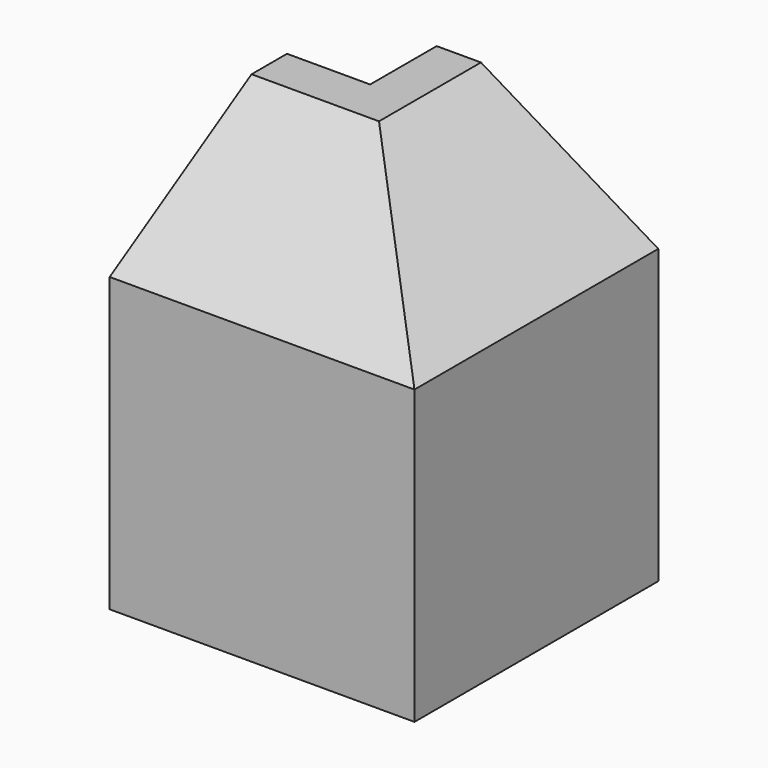
from build123d import *

# Parameters (mm, degrees)
PAD009_DEPTH    = 28.8
POCKET005_DEPTH = 24
POCKET006_DEPTH = 24
SKETCH111_W     = 2
SKETCH111_H     = 16
POCKET027_DEPTH = 30
PAD132_DEPTH    = 24
PAD133_DEPTH    = 22
POCKET054_DEPTH = 30
POCKET055_DEPTH = 26
SKETCH189_W     = 16
SKETCH189_H     = 2
POCKET071_DEPTH = 30


with BuildPart() as part:
    # Sketch014 (on Face52 of Binder005) → Pad009 (new body)
    with BuildSketch(Plane.XY.offset(-28.8)):
        Polygon((127.8, 0), (127.8, 8), (143.8, 8), (143.8, -16), (119.8, -16), (119.8, 0), align=None)
    extrude(amount=PAD009_DEPTH)

    # Sketch015 (on Face5 of Pad009) → Pocket005 (cut)
    with BuildSketch(Plane(origin=(119.8, 0, 0), x_dir=(0, -1, 0), z_dir=(-1, 0, 0))):
        Polygon((16, -9.6), (0, 0), (16, 0), align=None)
    extrude(amount=-POCKET005_DEPTH, mode=Mode.SUBTRACT)

    # Sketch016 (on Face3 of Pocket005) → Pocket006 (cut)
    with BuildSketch(Plane(origin=(0, 8, 0), x_dir=(-1, 0, 0), z_dir=(0, 1, 0))):
        Polygon((-143.8, -9.6), (-127.8, 0), (-143.8, 0), align=None)
    extrude(amount=-POCKET006_DEPTH, mode=Mode.SUBTRACT)

    # Sketch111 (on Face4 of Pocket006) → Pocket027 (cut)
    with BuildSketch(Plane(origin=(0, 0, -28.8), x_dir=(1, 0, 0), z_dir=(0, 0, -1))):
        with Locations((120.8, 8)):
            Rectangle(SKETCH111_W, SKETCH111_H)
    extrude(amount=-POCKET027_DEPTH, mode=Mode.SUBTRACT)

    # Sketch132 (on Face3 of Pocket027) → Pad132 (join)
    with BuildSketch(Plane(origin=(0, 8, 0), x_dir=(-1, 0, 0), z_dir=(0, 1, 0))):
        Polygon((-127.8, 0), (-131, 0), (-143.8, -7.68), (-143.8, -10.88), (-131, -3.2), (-127.8, -3.2), align=None)
    extrude(amount=-PAD132_DEPTH)

    # Sketch133 (on Face3 of Pad132) → Pad133 (join)
    with BuildSketch(Plane(origin=(121.8, 0, 0), x_dir=(0, -1, 0), z_dir=(-1, 0, 0))):
        Polygon((0, 0), (0, -3.2), (3.2, -3.2), (16, -10.88), (16, -7.68), (3.2, 0), align=None)
    extrude(amount=-PAD133_DEPTH)

    # Sketch168 (on Face3 of Pad133) → Pocket054 (cut)
    with BuildSketch(Plane(origin=(0, 8, 0), x_dir=(-1, 0, 0), z_dir=(0, 1, 0))):
        Polygon((-131, 0), (-143.8, -7.68), (-143.8, 0), align=None)
    extrude(amount=-POCKET054_DEPTH, mode=Mode.SUBTRACT)

    # Sketch169 (on Face6 of Pocket054) → Pocket055 (cut)
    with BuildSketch(Plane(origin=(121.8, 0, 0), x_dir=(0, -1, 0), z_dir=(-1, 0, 0))):
        Polygon((3.2, 0), (16, -7.68), (16, 0), align=None)
    extrude(amount=-POCKET055_DEPTH, mode=Mode.SUBTRACT)

    # Sketch189 (on Face1 of Pocket055) → Pocket071 (cut)
    with BuildSketch(Plane(origin=(0, 0, -28.8), x_dir=(1, 0, 0), z_dir=(0, 0, -1))):
        with Locations((135.8, -7)):
            Rectangle(SKETCH189_W, SKETCH189_H)
    extrude(amount=-POCKET071_DEPTH, mode=Mode.SUBTRACT)


solid = part.part
